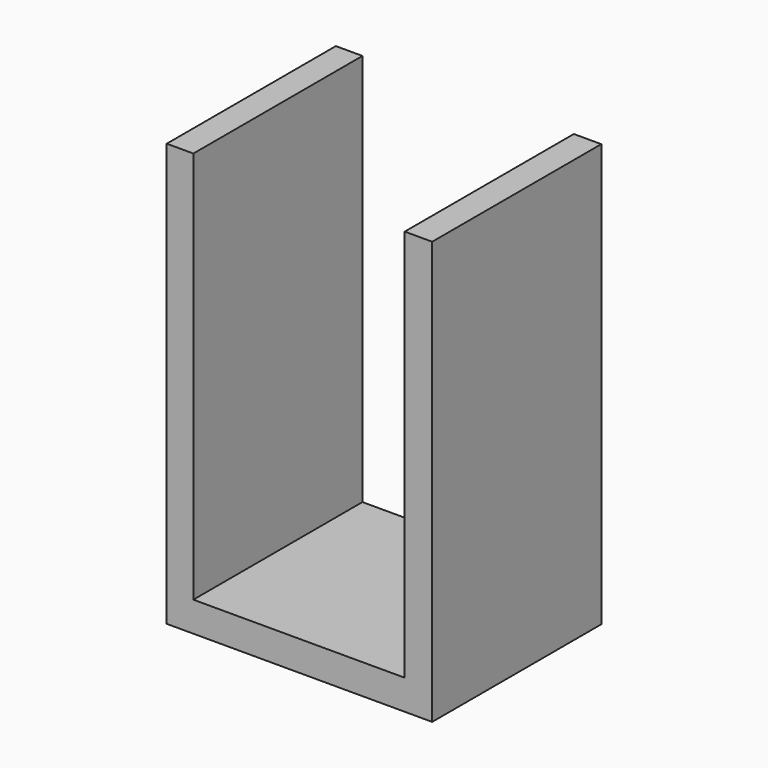
from build123d import *

# Parameters (mm, degrees)
F0_W     = 6.400002
F0_H     = 94.4
F0_H_2   = 7.2
F0_W_2   = 50.8
F0_W_3   = 6.6
F1_DEPTH = 50.8


with BuildPart() as f1:
    # F0 (on Front) → F1 (new body)
    with BuildSketch(Plane.XZ):
        with Locations((-60.600001, 54.4)):
            Rectangle(F0_W, F0_H)
        with Locations((-60.600001, 3.6)):
            Rectangle(F0_W, F0_H_2)
        with Locations((-32, 3.6)):
            Rectangle(F0_W_2, F0_H_2)
        with Locations((-3.3, 54.4)):
            Rectangle(F0_W_3, F0_H)
        with Locations((-3.3, 3.6)):
            Rectangle(F0_W_3, F0_H_2)
    extrude(amount=F1_DEPTH)


solid = f1.part
